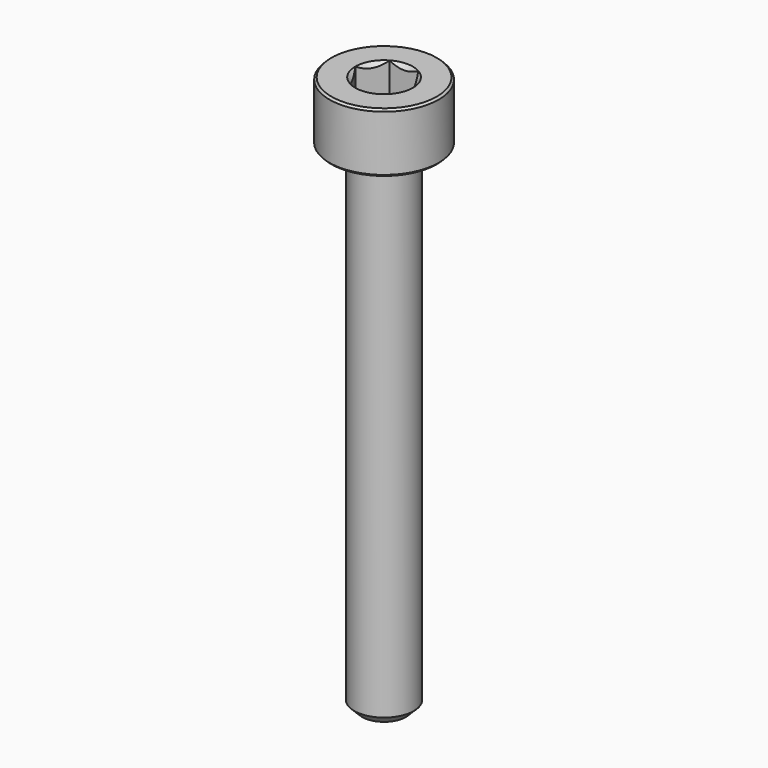
from build123d import *

# Parameters (mm, degrees)
SKETCH001_R     = 3.75
POCKET_DEPTH    = 9.70192
CHAMFER_SIZE    = 0.4
CHAMFER001_SIZE = 0.1


with BuildPart() as pocket:
    # Sketch003 → Revolution001 (revolve)
    with BuildSketch(Plane.XZ):
        Polygon((0, 0.29908), (2.75, 1.3), (2.75, 10), (0, 10), align=None)
    revolve(axis=Axis((0, 0, 0), (0, 0, 1)))

    # Sketch001 → Pocket (cut, through all)
    with BuildSketch(Plane(origin=(0, 0, 10), x_dir=(-1, 0, 0), z_dir=(0, 0, 1))):
        Circle(SKETCH001_R)
        Polygon((-0.721688, 1.25), (0.721688, 1.25), (1.443376, 0), (0.721688, -1.25), (-0.721688, -1.25), (-1.443376, 0), align=None, mode=Mode.SUBTRACT)
    extrude(amount=-POCKET_DEPTH, mode=Mode.SUBTRACT)


with BuildPart() as chamfer001:
    # Sketch → Revolution (revolve)
    with BuildSketch(Plane.XZ):
        Polygon((1.45, 3), (2.75, 3), (2.75, 0), (1.5, 0), (1.5, -25), (0, -25), (0, 1.549999), align=None)
    revolve(axis=Axis((0, 0, 0), (0, 0, 1)))

    # Cut: cut Pocket
    add(pocket.part, mode=Mode.SUBTRACT)

    # Chamfer
    chamfer_edges = [chamfer001.edges().sort_by_distance(p)[0] for p in [
        (-1.5, 0, -25),
    ]]
    chamfer(chamfer_edges, length=CHAMFER_SIZE)

    # Chamfer001
    chamfer001_edges = [chamfer001.edges().sort_by_distance(p)[0] for p in [
        (-2.75, 0, 0),
        (-2.75, 0, 3),
    ]]
    chamfer(chamfer001_edges, length=CHAMFER001_SIZE)


solid = chamfer001.part
